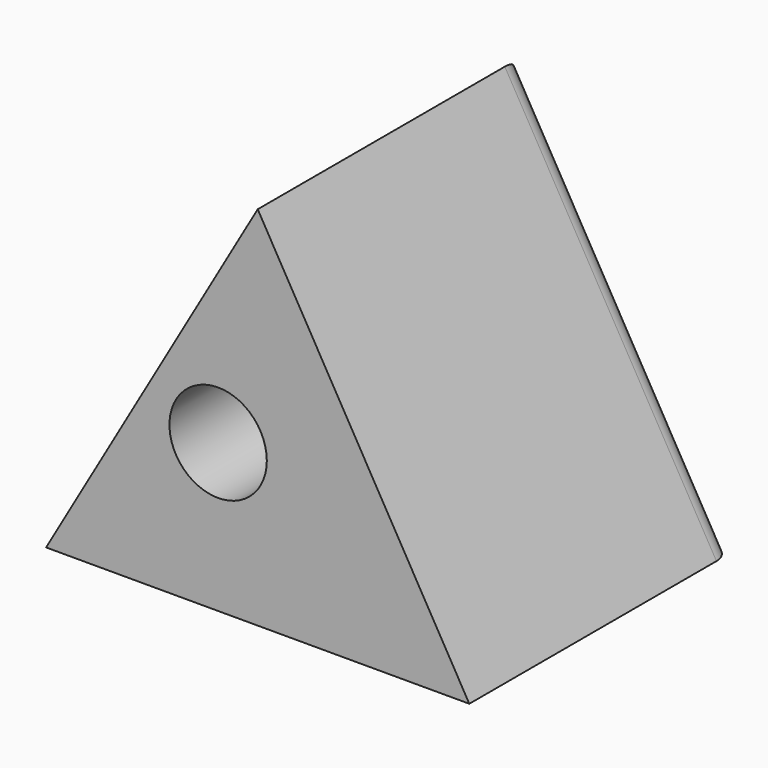
from build123d import *

# Parameters (mm, degrees)
F1_DEPTH = 98
F2_R     = 6.518377
F3_R     = 14.415035
F4_DEPTH = 98.001


with BuildPart() as f1:
    # F0 (on Front) → F1 (new body)
    with BuildSketch(Plane.XZ):
        Polygon((-62.669813, -36.182433), (62.669813, -36.182433), (0, 72.364867), align=None)
    extrude(amount=F1_DEPTH)

    # F2
    f2_edges = [f1.edges().sort_by_distance(p)[0] for p in [
        (31.334906, 0, 18.091217),
    ]]
    fillet(f2_edges, radius=F2_R)

    # F3 (on face) → F4 (cut, through all)
    with BuildSketch(Plane.XZ.offset(98)):
        with Locations((-11.717295, 7.68878)):
            Circle(F3_R)
    extrude(amount=-F4_DEPTH, mode=Mode.SUBTRACT)


solid = f1.part
